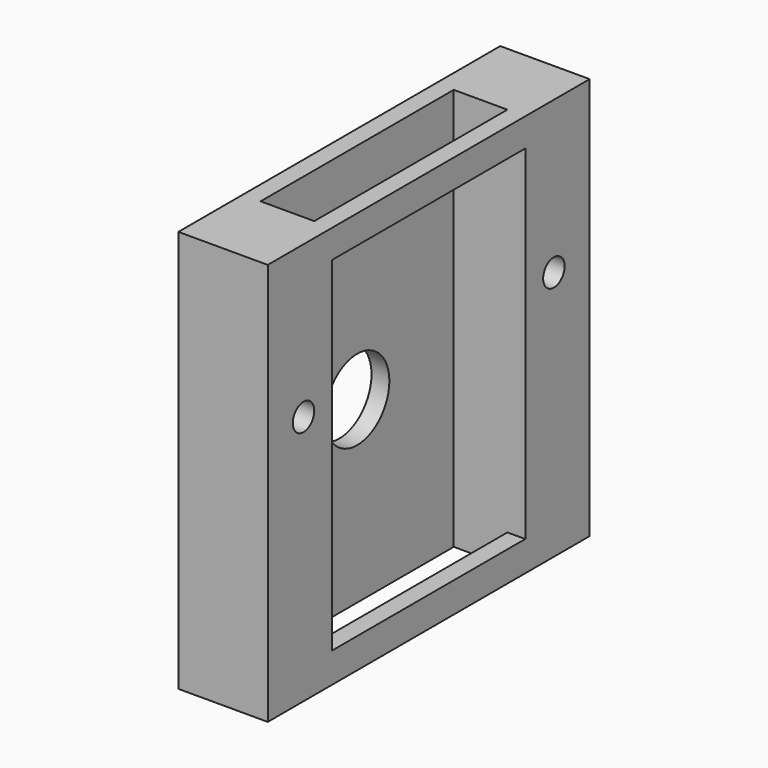
from build123d import *

# Parameters (mm, degrees)
F0_W     = 45
F0_H     = 45
F1_DEPTH = 10
F2_W     = 6
F2_H     = 27
F3_DEPTH = 4510
F4_R     = 4.5
F4_R_2   = 1.5
F5_DEPTH = 10
F6_W     = 27
F6_H     = 38.457482
F7_DEPTH = 5


with BuildPart() as f1:
    # F0 (on Right) → F1 (new body)
    with BuildSketch(Plane.YZ):
        with Locations((22.498396, 22.80707)):
            Rectangle(F0_W, F0_H)
    extrude(amount=F1_DEPTH)

    # F2 (on Top) → F3 (cut)
    with BuildSketch(Plane.XY):
        with Locations((5, 22.498396)):
            Rectangle(F2_W, F2_H)
    extrude(amount=F3_DEPTH, mode=Mode.SUBTRACT)

    # F4 (on Right) → F5 (cut)
    with BuildSketch(Plane.YZ):
        with Locations((22.498396, 20.30707)):
            Circle(F4_R)
        with Locations((4.998396, 28.30707)):
            Circle(F4_R_2)
        with Locations((39.998396, 28.30707)):
            Circle(F4_R_2)
    extrude(amount=F5_DEPTH, mode=Mode.SUBTRACT)

    # F6 (on face) → F7 (cut)
    with BuildSketch(Plane.YZ.offset(10)):
        with Locations((22.498396, 22.910485)):
            Rectangle(F6_W, F6_H)
    extrude(amount=-F7_DEPTH, mode=Mode.SUBTRACT)


solid = f1.part
